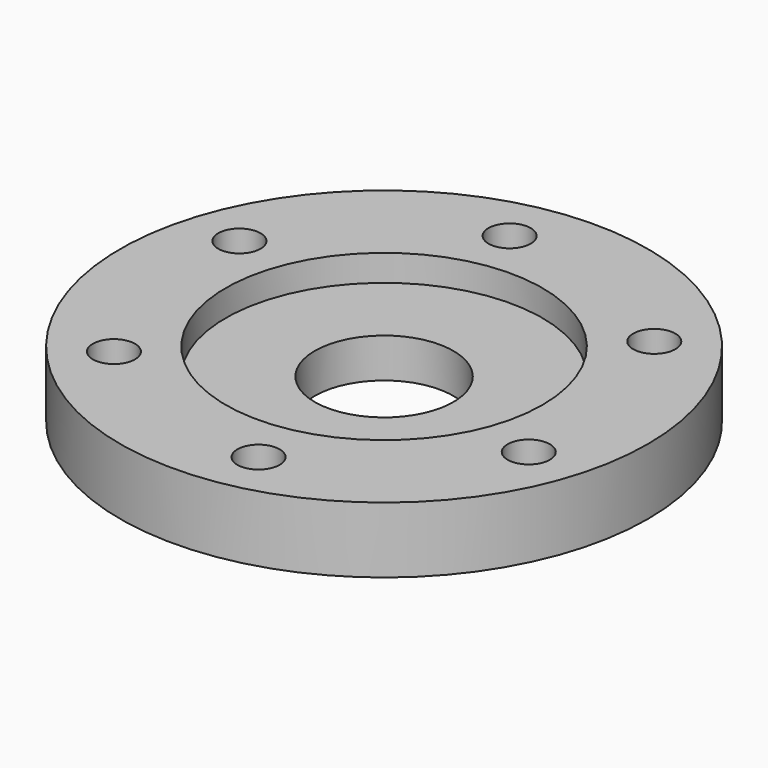
from build123d import *

# Parameters (mm, degrees)
F0_R          = 40
F1_DEPTH      = 10
F2_R          = 24
F3_DEPTH      = 4
F3_DEPTH_BACK = 10
F6_D          = 21
F7_D          = 6.4


with BuildPart() as f1:
    # F0 (on Top) → F1 (new body)
    with BuildSketch(Plane.XY):
        Circle(F0_R)
    extrude(amount=-F1_DEPTH)

    # F2 (on Top) → F3 (cut, two sides)
    with BuildSketch(Plane.XY) as f3_sk:
        Circle(F2_R)
    extrude(amount=-F3_DEPTH, mode=Mode.SUBTRACT)
    extrude(f3_sk.sketch, amount=F3_DEPTH_BACK, mode=Mode.SUBTRACT)

    # F6 (through all)
    with Locations(Plane.XY.offset(-4)):
        with Locations((0, 0)):
            Hole(F6_D / 2)

    # F7 (through all)
    with Locations(Plane.XY):
        with Locations((-6.105887852, 31.4120698703), (24.1507065671, 20.9938889277), (30.2565944192, -10.4181809426), (6.105887852, -31.4120698703), (-24.1507065671, -20.9938889277), (-30.2565944192, 10.4181809426)):
            Hole(F7_D / 2)


solid = f1.part
